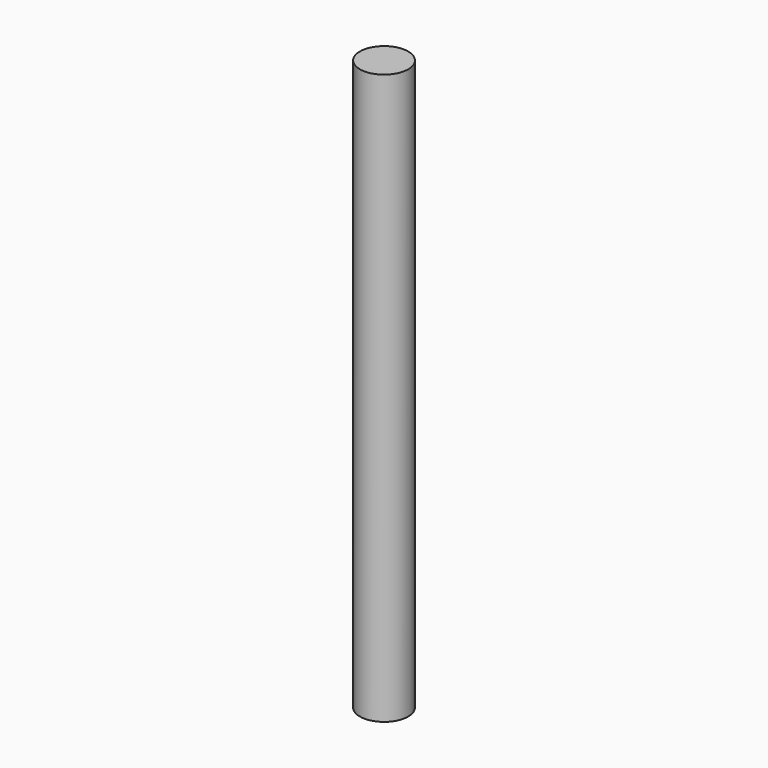
from build123d import *

# Parameters (mm, degrees)
F1_R     = 15.08125
F2_DEPTH = 355.6


with BuildPart() as f2:
    # F1 (on offset) → F2 (new body)
    with BuildSketch(Plane.XY.offset(31.75)):
        Circle(F1_R)
    extrude(amount=-F2_DEPTH)


solid = f2.part
